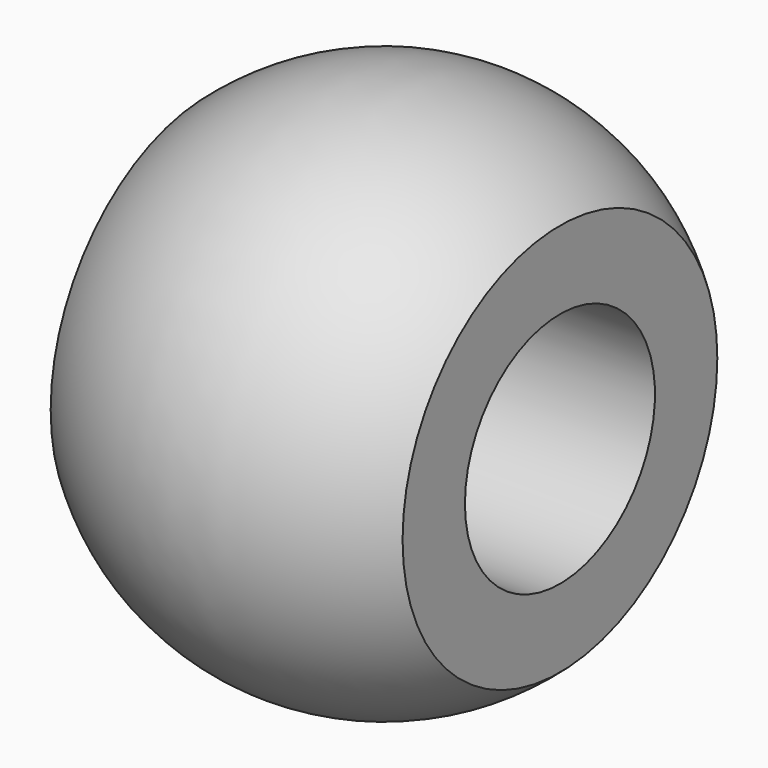
from build123d import *

# Parameters (mm, degrees)
F2_R     = 102.87
F3_DEPTH = 304.801


with BuildPart() as f1:
    # F0 (on Top) → F1 (revolve)
    with BuildSketch(Plane.XY):
        with BuildLine():
            Line((-381, 0), (-76.2, 0))
            Line((-76.2, 0), (-76.2, 170.38838))
            ThreePointArc((-76.2, 170.38838), (-228.6, 228.6), (-381, 170.38838))
            Line((-381, 170.38838), (-381, 0))
        make_face()
    revolve(axis=Axis((-228.6, 0, 0), (-1, 0, 0)))

    # F2 (on face) → F3 (cut, through all)
    with BuildSketch(Plane(origin=(-381, 0, 0), x_dir=(0, -1, 0), z_dir=(-1, 0, 0))):
        Circle(F2_R)
    extrude(amount=-F3_DEPTH, mode=Mode.SUBTRACT)


solid = f1.part
